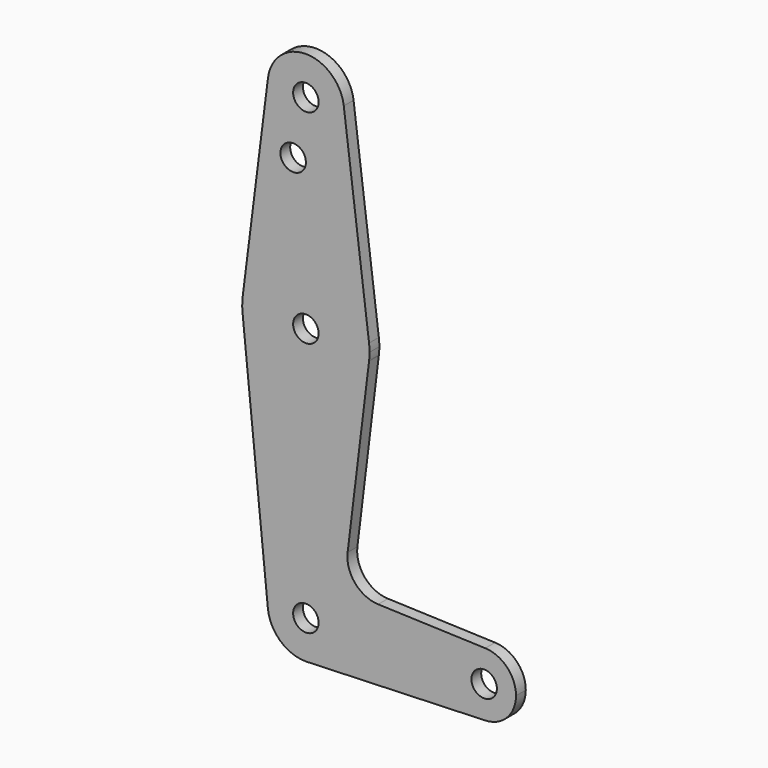
from build123d import *

# Parameters (mm, degrees)
F0_R     = 3.175
F1_DEPTH = 3.048


with BuildPart() as f1:
    # F0 (on Front) → F1 (new body)
    with BuildSketch(Plane.XZ):
        with BuildLine():
            ThreePointArc((-9.450293, 115.490625), (-0.596483, 104.793695), (9.525, 114.3))
            ThreePointArc((9.525, 114.3), (9.506305, 114.896483), (9.450293, 115.490625))
            ThreePointArc((9.450293, 115.490625), (0, 123.825), (-9.450293, 115.490625))
        make_face()
        with Locations((0, 114.3)):
            Circle(F0_R, mode=Mode.SUBTRACT)
        with BuildLine():
            ThreePointArc((9.450293, 115.490625), (9.506305, 114.896483), (9.525, 114.3))
            ThreePointArc((9.525, 114.3), (-0.596483, 104.793695), (-9.450293, 115.490625))
            Line((-9.450293, 115.490625), (-15.750488, 65.484375))
            ThreePointArc((-15.750488, 65.484375), (0, 79.375), (15.750488, 65.484375))
            Line((15.750488, 65.484375), (9.450293, 115.490625))
        make_face()
        with Locations((-3.175, 100.0252)):
            Circle(F0_R, mode=Mode.SUBTRACT)
        with BuildLine():
            Line((10.406487, 17.793352), (15.764621, 61.631217))
            ThreePointArc((15.764621, 61.631217), (-0.141482, 47.62563), (-15.795426, 61.9125))
            Line((-15.795426, 61.9125), (-9.477255, -0.9525))
            ThreePointArc((-9.477255, -0.9525), (-0.476848, 9.513056), (9.525, 0))
            ThreePointArc((9.525, 0), (9.513056, -0.476848), (9.477255, -0.9525))
            ThreePointArc((9.477255, -0.9525), (6.636844, -6.832125), (0.677344, -9.500886))
            Line((0.677344, -9.500886), (44.732405, -7.932475))
            ThreePointArc((44.732405, -7.932475), (36.5125, 0), (44.732405, 7.932475))
            Line((44.732405, 7.932475), (18.015102, 8.883642))
            ThreePointArc((18.015102, 8.883642), (12.252246, 11.665957), (10.406487, 17.793352))
        make_face()
        with BuildLine():
            ThreePointArc((15.875, 63.5), (15.843841, 64.494139), (15.750488, 65.484375))
            ThreePointArc((15.750488, 65.484375), (0, 79.375), (-15.750488, 65.484375))
            ThreePointArc((-15.750488, 65.484375), (-15.873744, 63.699705), (-15.795426, 61.9125))
            ThreePointArc((-15.795426, 61.9125), (-0.141482, 47.62563), (15.764621, 61.631217))
            ThreePointArc((15.764621, 61.631217), (15.847381, 62.56398), (15.875, 63.5))
        make_face()
        with Locations((0, 63.5)):
            Circle(F0_R, mode=Mode.SUBTRACT)
        with BuildLine():
            ThreePointArc((9.525, 0), (-0.476848, 9.513056), (-9.477255, -0.9525))
            ThreePointArc((-9.477255, -0.9525), (-6.389564, -7.063929), (0, -9.525))
            Line((0, -9.525), (0.677344, -9.500886))
            ThreePointArc((0.677344, -9.500886), (6.636844, -6.832125), (9.477255, -0.9525))
            ThreePointArc((9.477255, -0.9525), (9.513056, -0.476848), (9.525, 0))
        make_face()
        Circle(F0_R, mode=Mode.SUBTRACT)
        with BuildLine():
            Line((0.677344, -9.500886), (0, -9.525))
            ThreePointArc((0, -9.525), (0.338886, -9.51897), (0.677344, -9.500886))
        make_face()
        with BuildLine():
            ThreePointArc((52.3875, 0), (50.161633, 5.51191), (44.732405, 7.932475))
            ThreePointArc((44.732405, 7.932475), (36.5125, 0), (44.732405, -7.932475))
            ThreePointArc((44.732405, -7.932475), (50.161633, -5.51191), (52.3875, 0))
        make_face()
        with Locations((44.45, 0)):
            Circle(F0_R, mode=Mode.SUBTRACT)
    extrude(amount=F1_DEPTH)


solid = f1.part
